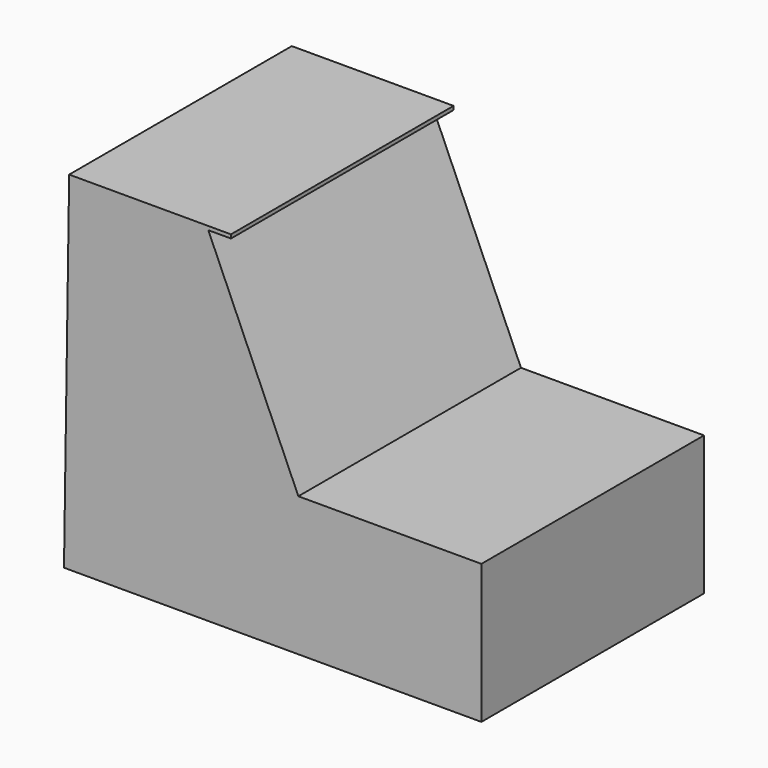
from build123d import *

# Parameters (mm, degrees)
F2_DEPTH = 25.4
F3_W     = 22.86
F3_H     = 25.4
F4_DEPTH = 2.54


with BuildPart() as f2:
    # F1 (on face) → F2 (new body)
    with BuildSketch(Plane.XZ):
        Polygon((-16.708008, 12.7), (-24.927931, 31.408676), (0, 31.408676), (0, 31.74649), (-37.627931, 31.74649), (-38.1, 0), (0, 0), (0, 12.7), align=None)
    extrude(amount=F2_DEPTH)

    # F3 (on face) → F4 (cut)
    with BuildSketch(Plane.XY.offset(31.74649)):
        with Locations((-11.43, -12.7)):
            Rectangle(F3_W, F3_H)
    extrude(amount=-F4_DEPTH, mode=Mode.SUBTRACT)


solid = f2.part
